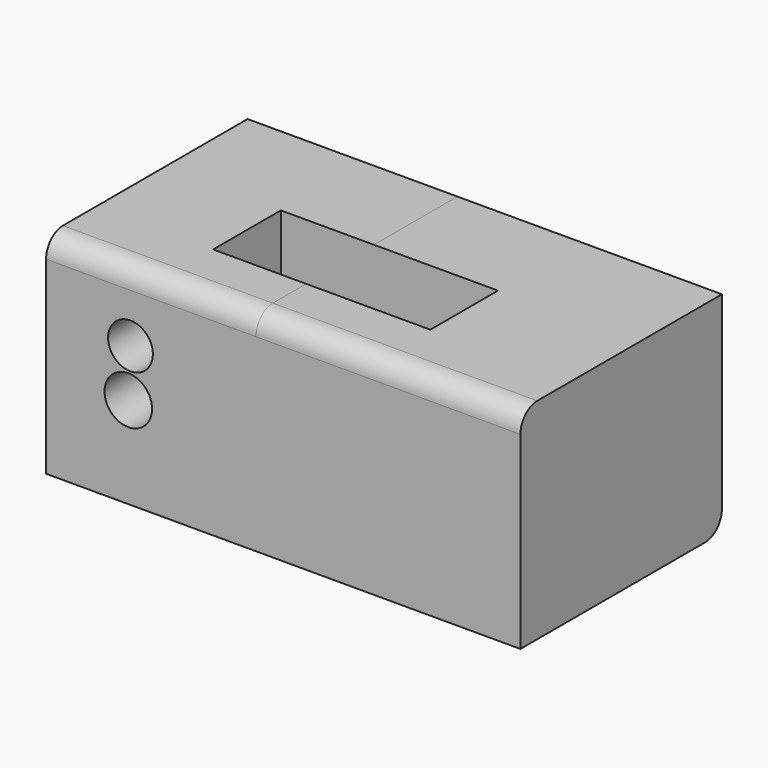
from build123d import *

# Parameters (mm, degrees)
F0_W     = 127
F0_H     = 127
F1_DEPTH = 76.2
F2_R     = 12.7
F3_R     = 13.5576573184
F3_R_2   = 14.3770911371
F4_DEPTH = 152.4
F5_DEPTH = 160.02
F6_W     = 131.4042881131
F6_H     = 51.2029398233
F7_DEPTH = 211.836


with BuildPart() as f1:
    # F0 (on Front) → F1 (new body, symmetric)
    with BuildSketch(Plane.XZ):
        with Locations((63.5, 63.5)):
            Rectangle(F0_W, F0_H)
    extrude(amount=F1_DEPTH, both=True)

    # F2
    f2_edges = [f1.edges().sort_by_distance(p)[0] for p in [
        (63.5, -76.2, 127),
        (63.5, 76.2, 0),
    ]]
    fillet(f2_edges, radius=F2_R)

    # F3 (on face) → F4 (cut, through all)
    with BuildSketch(Plane.XZ.offset(76.2)):
        with Locations((51.0555580258, 84.6957564354)):
            Circle(F3_R)
        with Locations((49.7466027737, 55.3751178086)):
            Circle(F3_R_2)
    extrude(amount=-F4_DEPTH, mode=Mode.SUBTRACT)

    # F5 (add): a face of the model
    f5_faces = [f1.faces().sort_by_distance(p)[0] for p in [
        (127, 0, 63.5),
    ]]
    extrude(f5_faces, amount=F5_DEPTH)

    # F6 (on face) → F7 (cut)
    with BuildSketch(Plane.XY.offset(127)):
        with Locations((136.3636963069, -12.5774694607)):
            Rectangle(F6_W, F6_H)
    extrude(amount=-F7_DEPTH, mode=Mode.SUBTRACT)


solid = f1.part
